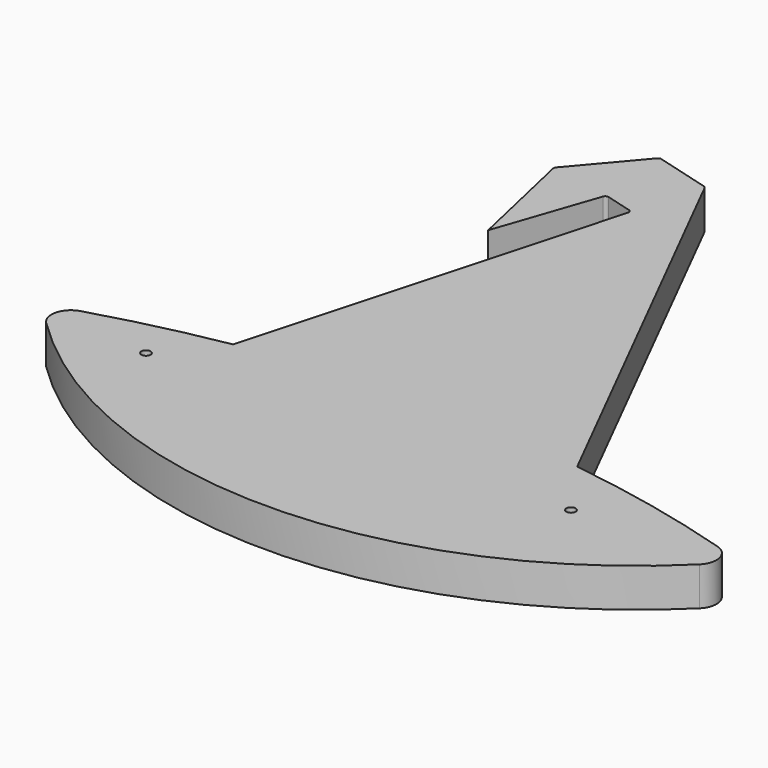
from build123d import *

# Parameters (mm, degrees)
F0_R     = 1.524
F1_DEPTH = 12.7


with BuildPart() as f1:
    # F0 (on Top) → F1 (new body)
    with BuildSketch(Plane.XY):
        with BuildLine():
            ThreePointArc((-72.665792, 3.084811), (-76.992746, -1.462959), (-75.297317, -7.506986))
            ThreePointArc((-75.297317, -7.506986), (31.915928, -51.596875), (139.129173, -7.506986))
            ThreePointArc((139.129173, -7.506986), (140.824601, -1.462959), (136.497648, 3.084811))
            ThreePointArc((136.497648, 3.084811), (108.852435, 10.255459), (80.727718, 15.222986))
            Line((80.727718, 15.222986), (9.585375, 156.433139))
            ThreePointArc((9.585375, 156.433139), (9.30488, 156.783506), (8.906557, 156.990322))
            Line((8.906557, 156.990322), (-9.023684, 161.96229))
            ThreePointArc((-9.023684, 161.96229), (-9.632272, 161.953831), (-10.140483, 161.61891))
            Line((-10.140483, 161.61891), (-27.223121, 141.489736))
            ThreePointArc((-27.223121, 141.489736), (-27.449596, 141.046132), (-27.453928, 140.548079))
            Line((-27.453928, 140.548079), (-19.026769, 103.382163))
            Line((-19.026769, 103.382163), (-7.742452, 136.383477))
            ThreePointArc((-7.742452, 136.383477), (-7.22222, 136.991888), (-6.426334, 137.077742))
            Line((-6.426334, 137.077742), (2.101916, 134.712901))
            ThreePointArc((2.101916, 134.712901), (2.756089, 134.201833), (2.857281, 133.377883))
            Line((2.857281, 133.377883), (-30.493163, 13.107292))
            ThreePointArc((-30.493163, 13.107292), (-51.729725, 8.728264), (-72.665792, 3.084811))
        make_face()
        with Locations((-44.918109, -4.572)):
            Circle(F0_R, mode=Mode.SUBTRACT)
        with Locations((94.527891, -4.572)):
            Circle(F0_R, mode=Mode.SUBTRACT)
    extrude(amount=F1_DEPTH)


solid = f1.part
